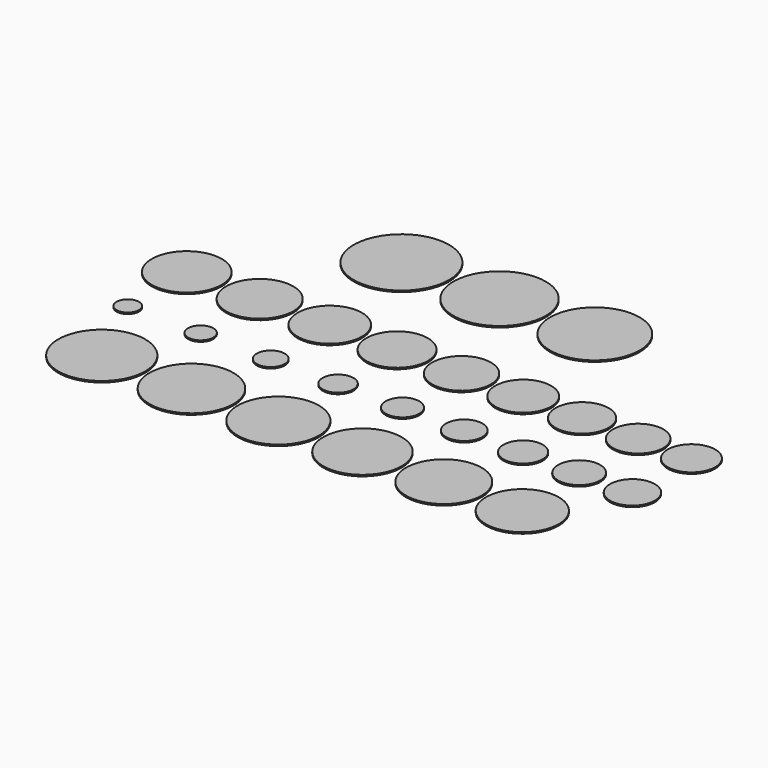
from build123d import *

# Parameters (mm, degrees)
F0_R     = 6
F0_R_2   = 7.5
F0_R_3   = 7
F0_R_4   = 6.5
F0_R_5   = 8
F0_R_6   = 12.5
F0_R_7   = 12
F0_R_8   = 11.5
F0_R_9   = 11
F0_R_10  = 10.5
F0_R_11  = 10
F0_R_12  = 9
F0_R_13  = 9.5
F0_R_14  = 8.5
F0_R_15  = 4
F0_R_16  = 4.5
F0_R_17  = 5
F0_R_18  = 5.5
F0_R_19  = 17
F0_R_20  = 16.5
F0_R_21  = 16
F0_R_22  = 15.5
F0_R_23  = 15
F0_R_24  = 14.5
F0_R_25  = 14
F0_R_26  = 13
F0_R_27  = 13.5
F1_DEPTH = 0.5


with BuildPart() as f1:
    # F0 (on Top) → F1 (new body)
    with BuildSketch(Plane.XY):
        with Locations((8.194553, -26.310058)):
            Circle(F0_R)
        with Locations((71.194553, -26.310058)):
            Circle(F0_R_2)
        with Locations((51.194553, -26.310058)):
            Circle(F0_R_3)
        with Locations((30.194553, -26.310058)):
            Circle(F0_R_4)
        with Locations((90.194553, -26.310058)):
            Circle(F0_R_5)
        with Locations((-89.805447, 0)):
            Circle(F0_R_6)
        with Locations((-63.805447, 0)):
            Circle(F0_R_7)
        with Locations((-38.805447, 0)):
            Circle(F0_R_8)
        with Locations((-14.805447, 0)):
            Circle(F0_R_9)
        with Locations((8.194553, 0)):
            Circle(F0_R_10)
        with Locations((30.194553, 0)):
            Circle(F0_R_11)
        with Locations((71.194553, 0)):
            Circle(F0_R_12)
        with Locations((51.194553, 0)):
            Circle(F0_R_13)
        with Locations((90.194553, 0)):
            Circle(F0_R_14)
        with Locations((-89.805447, -26.310058)):
            Circle(F0_R_15)
        with Locations((-63.805447, -26.310058)):
            Circle(F0_R_16)
        with Locations((-38.805447, -26.310058)):
            Circle(F0_R_17)
        with Locations((-14.805447, -26.310058)):
            Circle(F0_R_18)
        with Locations((-46.696352, 41.803382)):
            Circle(F0_R_19)
        with Locations((-11.696352, 41.803382)):
            Circle(F0_R_20)
        with Locations((22.303648, 41.803382)):
            Circle(F0_R_21)
        with Locations((-76.865271, -54.08955)):
            Circle(F0_R_22)
        with Locations((-44.865271, -54.08955)):
            Circle(F0_R_23)
        with Locations((-13.865271, -54.08955)):
            Circle(F0_R_24)
        with Locations((16.134729, -54.08955)):
            Circle(F0_R_25)
        with Locations((73.134729, -54.08955)):
            Circle(F0_R_26)
        with Locations((45.134729, -54.08955)):
            Circle(F0_R_27)
    extrude(amount=F1_DEPTH)


solid = f1.part
